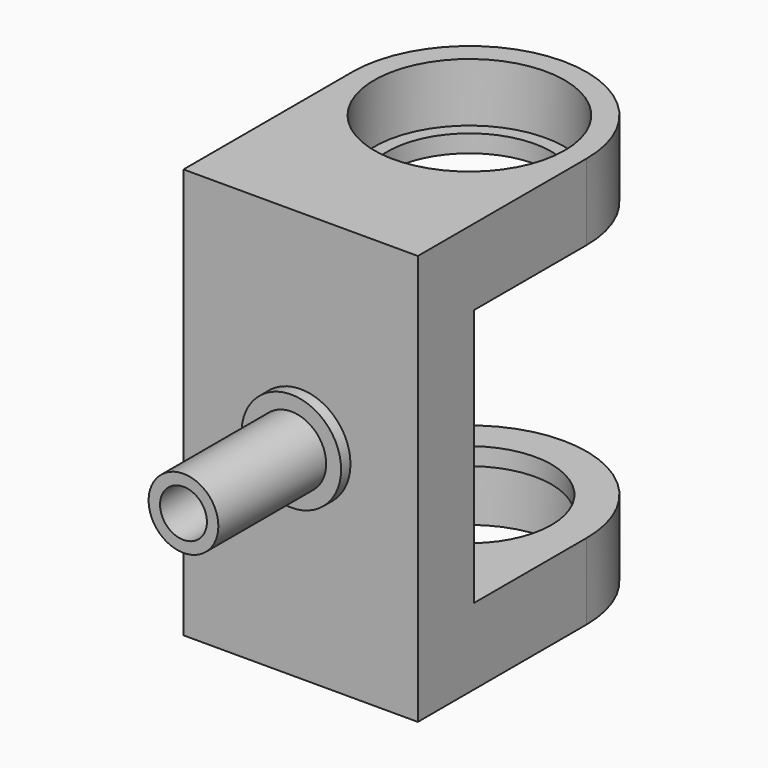
from build123d import *

# Parameters (mm, degrees)
SKETCH005_AS_DRAWN_R                 = 10
EXTRUDE005_DEPTH                     = 5
EXTRUDE005_ONTO_SKETCH005_ROLL_ANGLE = 90
SKETCH001_AS_DRAWN_W                 = 40
SKETCH001_AS_DRAWN_H                 = 70
SKETCH001_AS_DRAWN_R                 = 3.5
EXTRUDE002_DEPTH                     = 12
EXTRUDE002_ONTO_SKETCH001_ROLL_ANGLE = 90
SKETCH004_AS_DRAWN_R                 = 8.5
SKETCH004_AS_DRAWN_R_2               = 3.5
EXTRUDE004_DEPTH                     = 2
EXTRUDE004_ONTO_SKETCH004_ROLL_ANGLE = 90
SKETCH003_AS_DRAWN_R                 = 5.95
SKETCH003_AS_DRAWN_R_2               = 4
EXTRUDE003_DEPTH                     = 25
EXTRUDE003_ONTO_SKETCH003_ROLL_ANGLE = 90
CYLINDER001_R                        = 16.25
CYLINDER001_DEPTH                    = 10
SKETCH_R                             = 14
EXTRUDE_DEPTH                        = 13
CYLINDER_R                           = 16.25
CYLINDER_DEPTH                       = 10
EXTRUDE001_DEPTH                     = 13


with BuildPart() as contra_nut_cut:
    # Sketch005 as drawn → Extrude005 (new)
    with BuildSketch(Plane.XY):
        Circle(SKETCH005_AS_DRAWN_R)
    extrude(amount=-EXTRUDE005_DEPTH)


with BuildPart() as contra_nut_cut_1:
    # Extrude005 onto Sketch005 roll: moved
    add(contra_nut_cut.part.rotate(Axis((0, 0, 0), (1, 0, 0)), EXTRUDE005_ONTO_SKETCH005_ROLL_ANGLE))


with BuildPart() as contra_nut_cut_2:
    # Extrude005 onto Sketch005 placement: moved
    add(contra_nut_cut_1.part)


with BuildPart() as contra_nut_cut_3:
    # Extrude005 placement: moved
    add(contra_nut_cut_2.part.moved(Location((0, 7, 0))))


with BuildPart() as nut_cut:
    # Sketch001 as drawn → Extrude002 (new)
    with BuildSketch(Plane.XY):
        Rectangle(SKETCH001_AS_DRAWN_W, SKETCH001_AS_DRAWN_H)
        Circle(SKETCH001_AS_DRAWN_R, mode=Mode.SUBTRACT)
    extrude(amount=-EXTRUDE002_DEPTH)


with BuildPart() as nut_cut_1:
    # Extrude002 onto Sketch001 roll: moved
    add(nut_cut.part.rotate(Axis((0, 0, 0), (1, 0, 0)), EXTRUDE002_ONTO_SKETCH001_ROLL_ANGLE))


with BuildPart() as nut_cut_2:
    # Extrude002 onto Sketch001 placement: moved
    add(nut_cut_1.part)

    # Cut002: cut contra-nut-cut
    add(contra_nut_cut_3.part, mode=Mode.SUBTRACT)


with BuildPart() as nut_cut_3:
    # Cut002 placement: moved
    add(nut_cut_2.part.moved(Location((0, -36, 0))))


with BuildPart() as z_bearings_pad:
    # Sketch004 as drawn → Extrude004 (new)
    with BuildSketch(Plane.XY):
        Circle(SKETCH004_AS_DRAWN_R)
        Circle(SKETCH004_AS_DRAWN_R_2, mode=Mode.SUBTRACT)
    extrude(amount=-EXTRUDE004_DEPTH)


with BuildPart() as z_bearings_pad_1:
    # Extrude004 onto Sketch004 roll: moved
    add(z_bearings_pad.part.rotate(Axis((0, 0, 0), (1, 0, 0)), EXTRUDE004_ONTO_SKETCH004_ROLL_ANGLE))


with BuildPart() as z_bearings_pad_2:
    # Extrude004 onto Sketch004 placement: moved
    add(z_bearings_pad_1.part)


with BuildPart() as z_bearings_pad_3:
    # Extrude004 placement: moved
    add(z_bearings_pad_2.part.moved(Location((0, -38, 0))))


with BuildPart() as z_bearings_cylinder:
    # Sketch003 as drawn → Extrude003 (new)
    with BuildSketch(Plane.XY):
        Circle(SKETCH003_AS_DRAWN_R)
        Circle(SKETCH003_AS_DRAWN_R_2, mode=Mode.SUBTRACT)
    extrude(amount=-EXTRUDE003_DEPTH)


with BuildPart() as z_bearings_cylinder_1:
    # Extrude003 onto Sketch003 roll: moved
    add(z_bearings_cylinder.part.rotate(Axis((0, 0, 0), (1, 0, 0)), EXTRUDE003_ONTO_SKETCH003_ROLL_ANGLE))


with BuildPart() as z_bearings_cylinder_2:
    # Extrude003 onto Sketch003 placement: moved
    add(z_bearings_cylinder_1.part)


with BuildPart() as z_bearings_cylinder_3:
    # Extrude003 placement: moved
    add(z_bearings_cylinder_2.part.moved(Location((0, -61, 0))))


with BuildPart() as cylinder001:
    # Cylinder001 → Cylinder001 (new body)
    with BuildSketch(Plane.XY.offset(3)):
        Circle(CYLINDER001_R)
    extrude(amount=CYLINDER001_DEPTH)


with BuildPart() as bearing_nest_r_cut:
    # Sketch → Extrude (new body)
    with BuildSketch(Plane.XY):
        with BuildLine():
            ThreePointArc((20, 0), (0, 20), (-20, 0))
            Line((-20, 0), (-20, -36))
            Line((-20, -36), (20, -36))
            Line((20, -36), (20, 0))
        make_face()
        Circle(SKETCH_R, mode=Mode.SUBTRACT)
    extrude(amount=EXTRUDE_DEPTH)

    # Cut001: cut Cylinder001
    add(cylinder001.part, mode=Mode.SUBTRACT)


with BuildPart() as bearing_nest_r_cut_1:
    # Cut001 placement: moved
    add(bearing_nest_r_cut.part.moved(Location((0, 0, 22))))


with BuildPart() as cylinder:
    # Cylinder → Cylinder (new body)
    with BuildSketch(Plane.XY):
        Circle(CYLINDER_R)
    extrude(amount=CYLINDER_DEPTH)


with BuildPart() as fusion:
    # Sketch → Extrude001 (new body)
    with BuildSketch(Plane.XY):
        with BuildLine():
            ThreePointArc((20, 0), (0, 20), (-20, 0))
            Line((-20, 0), (-20, -36))
            Line((-20, -36), (20, -36))
            Line((20, -36), (20, 0))
        make_face()
        Circle(SKETCH_R, mode=Mode.SUBTRACT)
    extrude(amount=EXTRUDE001_DEPTH)

    # Cut: cut Cylinder
    add(cylinder.part, mode=Mode.SUBTRACT)


with BuildPart() as fusion_1:
    # Cut placement: moved
    add(fusion.part.moved(Location((0, 0, -35))))

    # Fusion: union nut-cut, z-bearings-pad, z-bearings-cylinder, bearing-nest-r-cut
    add(nut_cut_3.part)
    add(z_bearings_pad_3.part)
    add(z_bearings_cylinder_3.part)
    add(bearing_nest_r_cut_1.part)


solid = fusion_1.part
